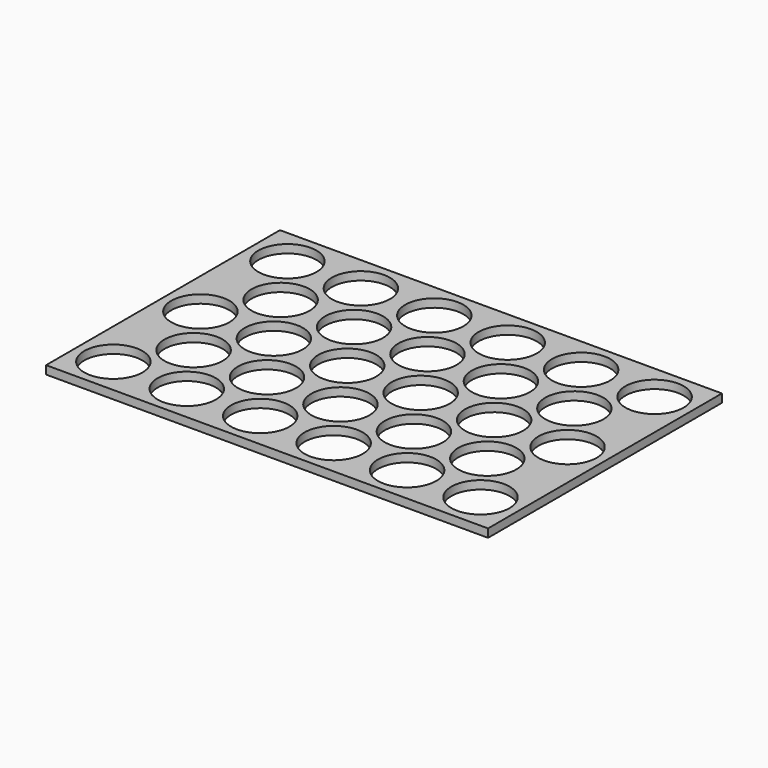
from build123d import *

# Parameters (mm, degrees)
F0_W     = 1012.825
F0_H     = 669.925
F0_R     = 66.675
F1_DEPTH = 6.35
F2_DEPTH = 12.7


with BuildPart() as f1:
    # F0 (on Top) → F1 (new body, symmetric)
    with BuildSketch(Plane.XY):
        Rectangle(F0_W, F0_H)
        with Locations((-420.6875, -249.3645)):
            Circle(F0_R, mode=Mode.SUBTRACT)
        with Locations((-252.4125, -249.3645)):
            Circle(F0_R, mode=Mode.SUBTRACT)
        with Locations((-84.1375, -249.3645)):
            Circle(F0_R, mode=Mode.SUBTRACT)
        with Locations((-336.55, -124.714)):
            Circle(F0_R, mode=Mode.SUBTRACT)
        with Locations((-420.6875, -0.0635)):
            Circle(F0_R, mode=Mode.SUBTRACT)
        with Locations((-168.275, -124.714)):
            Circle(F0_R, mode=Mode.SUBTRACT)
        with Locations((-252.4125, -0.0635)):
            Circle(F0_R, mode=Mode.SUBTRACT)
        with Locations((-84.1375, -0.0635)):
            Circle(F0_R, mode=Mode.SUBTRACT)
        with Locations((84.1375, -249.3645)):
            Circle(F0_R, mode=Mode.SUBTRACT)
        with Locations((252.4125, -249.3645)):
            Circle(F0_R, mode=Mode.SUBTRACT)
        with Locations((420.6875, -249.3645)):
            Circle(F0_R, mode=Mode.SUBTRACT)
        with Locations((0, -124.714)):
            Circle(F0_R, mode=Mode.SUBTRACT)
        with Locations((168.275, -124.714)):
            Circle(F0_R, mode=Mode.SUBTRACT)
        with Locations((84.1375, -0.0635)):
            Circle(F0_R, mode=Mode.SUBTRACT)
        with Locations((252.4125, -0.0635)):
            Circle(F0_R, mode=Mode.SUBTRACT)
        with Locations((336.55, -124.714)):
            Circle(F0_R, mode=Mode.SUBTRACT)
        with Locations((420.6875, -0.0635)):
            Circle(F0_R, mode=Mode.SUBTRACT)
        with Locations((-336.55, 124.587)):
            Circle(F0_R, mode=Mode.SUBTRACT)
        with Locations((-168.275, 124.587)):
            Circle(F0_R, mode=Mode.SUBTRACT)
        with Locations((-420.6875, 249.2375)):
            Circle(F0_R, mode=Mode.SUBTRACT)
        with Locations((-252.4125, 249.2375)):
            Circle(F0_R, mode=Mode.SUBTRACT)
        with Locations((-84.1375, 249.2375)):
            Circle(F0_R, mode=Mode.SUBTRACT)
        with Locations((0, 124.587)):
            Circle(F0_R, mode=Mode.SUBTRACT)
        with Locations((168.275, 124.587)):
            Circle(F0_R, mode=Mode.SUBTRACT)
        with Locations((336.55, 124.587)):
            Circle(F0_R, mode=Mode.SUBTRACT)
        with Locations((84.1375, 249.2375)):
            Circle(F0_R, mode=Mode.SUBTRACT)
        with Locations((252.4125, 249.2375)):
            Circle(F0_R, mode=Mode.SUBTRACT)
        with Locations((420.6875, 249.2375)):
            Circle(F0_R, mode=Mode.SUBTRACT)
    extrude(amount=F1_DEPTH, both=True)

    # F0 (on Top) → F2 (join)
    with BuildSketch(Plane.XY):
        Rectangle(F0_W, F0_H)
        with Locations((-420.6875, -249.3645)):
            Circle(F0_R, mode=Mode.SUBTRACT)
        with Locations((-252.4125, -249.3645)):
            Circle(F0_R, mode=Mode.SUBTRACT)
        with Locations((-84.1375, -249.3645)):
            Circle(F0_R, mode=Mode.SUBTRACT)
        with Locations((-336.55, -124.714)):
            Circle(F0_R, mode=Mode.SUBTRACT)
        with Locations((-420.6875, -0.0635)):
            Circle(F0_R, mode=Mode.SUBTRACT)
        with Locations((-168.275, -124.714)):
            Circle(F0_R, mode=Mode.SUBTRACT)
        with Locations((-252.4125, -0.0635)):
            Circle(F0_R, mode=Mode.SUBTRACT)
        with Locations((-84.1375, -0.0635)):
            Circle(F0_R, mode=Mode.SUBTRACT)
        with Locations((84.1375, -249.3645)):
            Circle(F0_R, mode=Mode.SUBTRACT)
        with Locations((252.4125, -249.3645)):
            Circle(F0_R, mode=Mode.SUBTRACT)
        with Locations((420.6875, -249.3645)):
            Circle(F0_R, mode=Mode.SUBTRACT)
        with Locations((0, -124.714)):
            Circle(F0_R, mode=Mode.SUBTRACT)
        with Locations((168.275, -124.714)):
            Circle(F0_R, mode=Mode.SUBTRACT)
        with Locations((84.1375, -0.0635)):
            Circle(F0_R, mode=Mode.SUBTRACT)
        with Locations((252.4125, -0.0635)):
            Circle(F0_R, mode=Mode.SUBTRACT)
        with Locations((336.55, -124.714)):
            Circle(F0_R, mode=Mode.SUBTRACT)
        with Locations((420.6875, -0.0635)):
            Circle(F0_R, mode=Mode.SUBTRACT)
        with Locations((-336.55, 124.587)):
            Circle(F0_R, mode=Mode.SUBTRACT)
        with Locations((-168.275, 124.587)):
            Circle(F0_R, mode=Mode.SUBTRACT)
        with Locations((-420.6875, 249.2375)):
            Circle(F0_R, mode=Mode.SUBTRACT)
        with Locations((-252.4125, 249.2375)):
            Circle(F0_R, mode=Mode.SUBTRACT)
        with Locations((-84.1375, 249.2375)):
            Circle(F0_R, mode=Mode.SUBTRACT)
        with Locations((0, 124.587)):
            Circle(F0_R, mode=Mode.SUBTRACT)
        with Locations((168.275, 124.587)):
            Circle(F0_R, mode=Mode.SUBTRACT)
        with Locations((336.55, 124.587)):
            Circle(F0_R, mode=Mode.SUBTRACT)
        with Locations((84.1375, 249.2375)):
            Circle(F0_R, mode=Mode.SUBTRACT)
        with Locations((252.4125, 249.2375)):
            Circle(F0_R, mode=Mode.SUBTRACT)
        with Locations((420.6875, 249.2375)):
            Circle(F0_R, mode=Mode.SUBTRACT)
    extrude(amount=F2_DEPTH)


solid = f1.part
